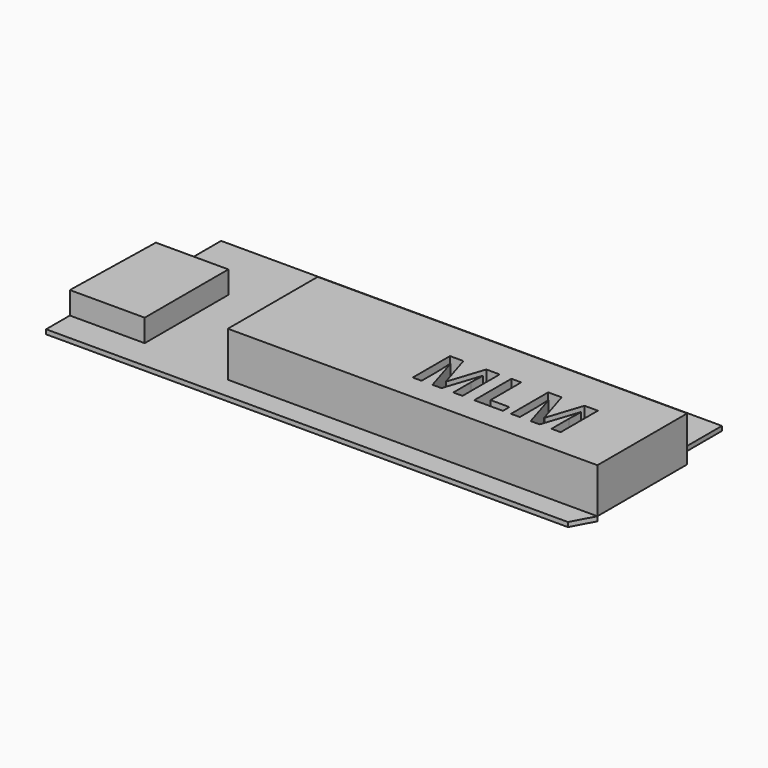
from build123d import *

# Parameters (mm, degrees)
F1_DEPTH = 2.54
F2_W     = 209.0289330468
F2_H     = 63.5
F3_DEPTH = 25.4
F5_DEPTH = 12.7


with BuildPart() as f1:
    # F0 (on Top) → F1 (new body)
    with BuildSketch(Plane.XY):
        Polygon((-150.5374759429, -36.733612048), (-150.5374759429, -53.5424363695), (144.6302120238, -53.5424363695), (151.3307016242, -41.091453577), (-57.6982314226, -41.091453577), (-57.6982314226, 22.408546423), (140.2723704948, 22.408546423), (140.2723704948, 60.7575636305), (-142.9874562062, 60.7575636305), (-142.9874562062, 22.408546423), (-108.2041540353, 22.408546423), (-108.2041540353, -36.733612048), align=None)
    extrude(amount=F1_DEPTH)


with BuildPart() as f3:
    # F2 (on face) → F3 (new body)
    with BuildSketch(Plane.XY.offset(2.54)):
        with Locations((46.8162351008, -9.341453577)):
            Rectangle(F2_W, F2_H)
        with BuildLine():
            Line((51.4916315393, -26.5251472592), (46.3800146196, -26.5251472592))
            Line((46.3800146196, -26.5251472592), (40.0480567235, -5.8944771687))
            Line((40.0480567235, -5.8944771687), (39.8868796134, -5.8944771687))
            add(Edge.make_bspline(
                [(39.8868796134, -5.8944771687), (40.232259135, -12.1861407873), (40.232259135, -14.2929558691)],
                knots=[0, 0, 0, 1, 1, 1], degree=2))
            Line((40.232259135, -14.2929558691), (40.232259135, -26.5251472592))
            Line((40.232259135, -26.5251472592), (35.2472813732, -26.5251472592))
            Line((35.2472813732, -26.5251472592), (35.2472813732, -0.224496689))
            Line((35.2472813732, -0.224496689), (42.8398745231, -0.224496689))
            Line((42.8398745231, -0.224496689), (49.0624622374, -20.3370974972))
            Line((49.0624622374, -20.3370974972), (49.1718324192, -20.3370974972))
            Line((49.1718324192, -20.3370974972), (55.7743376072, -0.224496689))
            Line((55.7743376072, -0.224496689), (63.3611744318, -0.224496689))
            Line((63.3611744318, -0.224496689), (63.3611744318, -26.5251472592))
            Line((63.3611744318, -26.5251472592), (58.1632126317, -26.5251472592))
            Line((58.1632126317, -26.5251472592), (58.1632126317, -14.0742155054))
            add(Edge.make_bspline(
                [(58.1632126317, -14.0742155054), (58.1632126317, -13.1934977253), (58.1919942585, -12.0422326533)],
                knots=[0, 0, 0, 1, 1, 1], degree=2))
            add(Edge.make_bspline(
                [(58.1919942585, -12.0422326533), (58.2207758853, -10.8909675813), (58.4337599236, -5.9290151209)],
                knots=[0, 0, 0, 1, 1, 1], degree=2))
            Line((58.4337599236, -5.9290151209), (58.2725828135, -5.9290151209))
            Line((58.2725828135, -5.9290151209), (51.4916315393, -26.5251472592))
        make_face(mode=Mode.SUBTRACT)
        Polygon((86.225298762, -26.5251472592), (69.9809485959, -26.5251472592), (69.9809485959, -0.224496689), (75.5588278698, -0.224496689), (75.5588278698, -21.9200869712), (86.225298762, -21.9200869712), align=None, mode=Mode.SUBTRACT)
        with BuildLine():
            Line((107.0401712641, -26.5251472592), (101.9285543443, -26.5251472592))
            Line((101.9285543443, -26.5251472592), (95.5965964483, -5.8944771687))
            Line((95.5965964483, -5.8944771687), (95.4354193382, -5.8944771687))
            add(Edge.make_bspline(
                [(95.4354193382, -5.8944771687), (95.7807988598, -12.1861407873), (95.7807988598, -14.2929558691)],
                knots=[0, 0, 0, 1, 1, 1], degree=2))
            Line((95.7807988598, -14.2929558691), (95.7807988598, -26.5251472592))
            Line((95.7807988598, -26.5251472592), (90.795821098, -26.5251472592))
            Line((90.795821098, -26.5251472592), (90.795821098, -0.224496689))
            Line((90.795821098, -0.224496689), (98.3884142479, -0.224496689))
            Line((98.3884142479, -0.224496689), (104.6110019621, -20.3370974972))
            Line((104.6110019621, -20.3370974972), (104.720372144, -20.3370974972))
            Line((104.720372144, -20.3370974972), (111.322877332, -0.224496689))
            Line((111.322877332, -0.224496689), (118.9097141566, -0.224496689))
            Line((118.9097141566, -0.224496689), (118.9097141566, -26.5251472592))
            Line((118.9097141566, -26.5251472592), (113.7117523564, -26.5251472592))
            Line((113.7117523564, -26.5251472592), (113.7117523564, -14.0742155054))
            add(Edge.make_bspline(
                [(113.7117523564, -14.0742155054), (113.7117523564, -13.1934977253), (113.7405339832, -12.0422326533)],
                knots=[0, 0, 0, 1, 1, 1], degree=2))
            add(Edge.make_bspline(
                [(113.7405339832, -12.0422326533), (113.76931561, -10.8909675813), (113.9822996483, -5.9290151209)],
                knots=[0, 0, 0, 1, 1, 1], degree=2))
            Line((113.9822996483, -5.9290151209), (113.8211225383, -5.9290151209))
            Line((113.8211225383, -5.9290151209), (107.0401712641, -26.5251472592))
        make_face(mode=Mode.SUBTRACT)
    extrude(amount=F3_DEPTH)


with BuildPart() as f5:
    # F4 (on face) → F5 (new body)
    with BuildSketch(Plane.XY.offset(2.54)):
        Polygon((-108.2041540353, 22.408546423), (-136.159107089, 22.408546423), (-149.1957902908, 22.408546423), (-150.5374759429, -36.733612048), (-108.2041540353, -36.733612048), align=None)
    extrude(amount=F5_DEPTH)


solid = Compound([f1.part, f3.part, f5.part])
